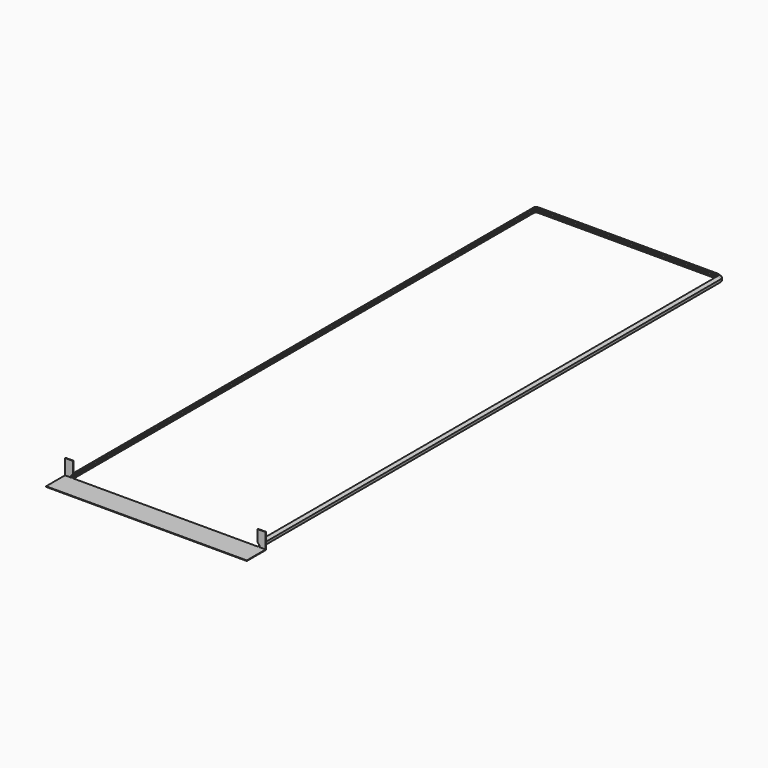
from build123d import *

# Parameters (mm, degrees)
PAD008_DEPTH    = 0.25
SKETCH021_W     = 101.318497
SKETCH021_H     = 15.372729
POCKET001_DEPTH = 41.578934
SKETCH020_W     = 85.083054
SKETCH020_H     = 0.25
PAD009_DEPTH    = 10


with BuildPart() as part:
    # AdditivePipe005: sweep along a path in Sketch016
    with BuildLine(Plane.XY) as additivepipe005_path:
        Line((-18.15, 227), (-18.15, -17))
        ThreePointArc((-18.15, -17), (-17.8131727984, -17.8131727984), (-17, -18.15))
        Line((-17, -18.15), (59, -18.15))
        ThreePointArc((59, -18.15), (59.8131727984, -17.8131727984), (60.15, -17))
        Line((60.15, -17), (60.15, 227))
        ThreePointArc((60.15, 227), (59.8131727984, 227.8131727984), (59, 228.15))
        Line((59, 228.15), (-17, 228.15))
        ThreePointArc((-17, 228.15), (-17.8131727984, 227.8131727984), (-18.15, 227))
    # Sketch015 → AdditivePipe005 (sweep)
    with BuildSketch(Plane.XZ):
        Polygon((-18.15, 36.6), (-18.9, 35.85), (-18.9, 35.1), (-18.15, 35.1), (-18.15, 34.85), (-19.15, 34.85), (-19.15, 35.9535533906), (-18.15, 36.9535533906), align=None)
    sweep(path=additivepipe005_path.line)

    # Sketch019 → Pad008 (new body)
    with BuildSketch(Plane.XZ.offset(17)):
        Polygon((-18.15, 36.9535533906), (-18.15, 41.577934), (-21.541527, 41.577934), (-21.541527, 34.85), (-19.15, 34.85), (-19.15, 35.9535533906), align=None)
        Polygon((60.15, 36.9535533906), (60.15, 41.577934), (63.541527, 41.577934), (63.541527, 34.85), (61.15, 34.85), (61.15, 35.9535533906), align=None)
    extrude(amount=-PAD008_DEPTH)

    # Sketch021 → Pocket001 (cut, through all)
    with BuildSketch(Plane.XY):
        with Locations((14.6124585, -24.6863645)):
            Rectangle(SKETCH021_W, SKETCH021_H)
    extrude(amount=POCKET001_DEPTH, mode=Mode.SUBTRACT)

    # Sketch020 (on Face13 of Pad008) → Pad009 (join)
    with BuildSketch(Plane.XZ.offset(17)):
        with Locations((21, 34.975)):
            Rectangle(SKETCH020_W, SKETCH020_H)
    extrude(amount=PAD009_DEPTH)


solid = part.part
